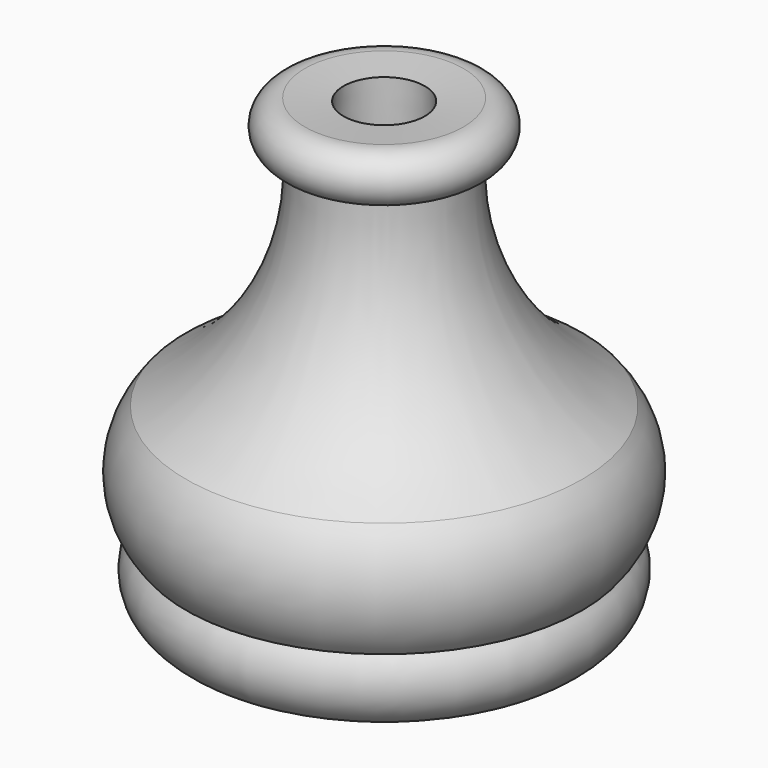
from build123d import *


with BuildPart() as f1:
    # F0 (on Front) → F1 (revolve)
    with BuildSketch(Plane.XZ):
        with BuildLine():
            Line((0, 2.680072), (0, 0))
            Line((0, 0), (20.260928, 0))
            ThreePointArc((20.260928, 0), (30.196702, -8.015531), (34.112792, 4.134884))
            ThreePointArc((34.112792, 4.134884), (37.783814, 14.058605), (34.112792, 23.982326))
            ThreePointArc((34.112792, 23.982326), (18.44092, 40.19608), (13.645117, 62.230002))
            ThreePointArc((13.645117, 62.230002), (18.230379, 66.468259), (13.645117, 70.706517))
            Line((13.645117, 70.706517), (7.005195, 70.183448))
            Line((7.005195, 70.183448), (7.217051, 61.854943))
            ThreePointArc((7.217051, 61.854943), (13.848798, 39.380873), (28.737634, 21.287049))
            ThreePointArc((28.737634, 21.287049), (32.329541, 14.141227), (31.425312, 6.194723))
            ThreePointArc((31.425312, 6.194723), (26.754792, 2.633024), (20.881356, 2.680072))
            Line((20.881356, 2.680072), (0, 2.680072))
        make_face()
    revolve(axis=Axis((0, 0, 1.340036), (0, 0, 1)))


solid = f1.part
